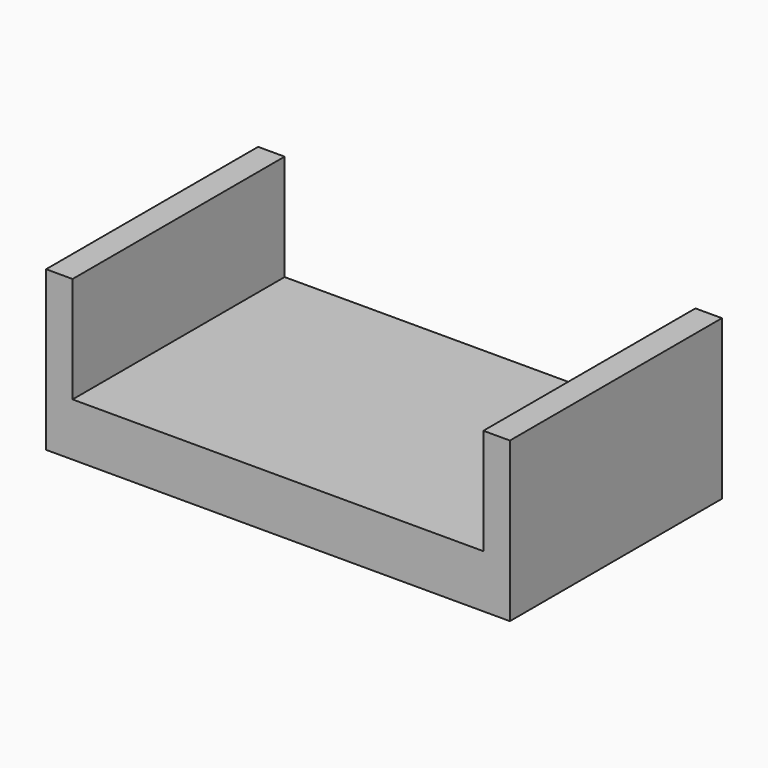
from build123d import *

# Parameters (mm, degrees)
F0_W     = 66
F0_H     = 40
F1_DEPTH = 2
F2_DEPTH = 2
F3_W     = 2
F3_H     = 40
F4_DEPTH = 16
F5_DEPTH = 2
F6_DEPTH = 2
F7_DEPTH = 4
F8_DEPTH = 2


with BuildPart() as f1:
    # F0 (on Top) → F1 (new body)
    with BuildSketch(Plane.XY):
        Rectangle(F0_W, F0_H)
    extrude(amount=F1_DEPTH)

    # F0 (on Top) → F2 (join)
    with BuildSketch(Plane.XY):
        Rectangle(F0_W, F0_H)
    extrude(amount=F2_DEPTH)

    # F3 (on face) → F4 (join)
    with BuildSketch(Plane.XY.offset(2)):
        with Locations((-32, 0)):
            Rectangle(F3_W, F3_H)
        with Locations((32, 0)):
            Rectangle(F3_W, F3_H)
    extrude(amount=F4_DEPTH)

    # F5 (add): a face of the model
    f5_faces = [f1.faces().sort_by_distance(p)[0] for p in [
        (33, 0, 9),
    ]]
    extrude(f5_faces, amount=F5_DEPTH)

    # F6 (add): a face of the model
    f6_faces = [f1.faces().sort_by_distance(p)[0] for p in [
        (-33, 0, 9),
    ]]
    extrude(f6_faces, amount=F6_DEPTH)

    # F7 (add): a face of the model
    f7_faces = [f1.faces().sort_by_distance(p)[0] for p in [
        (0, 0, 0),
    ]]
    extrude(f7_faces, amount=F7_DEPTH)

    # F8 (add): a face of the model
    f8_faces = [f1.faces().sort_by_distance(p)[0] for p in [
        (0, 0, -4),
    ]]
    extrude(f8_faces, amount=F8_DEPTH)


solid = f1.part
